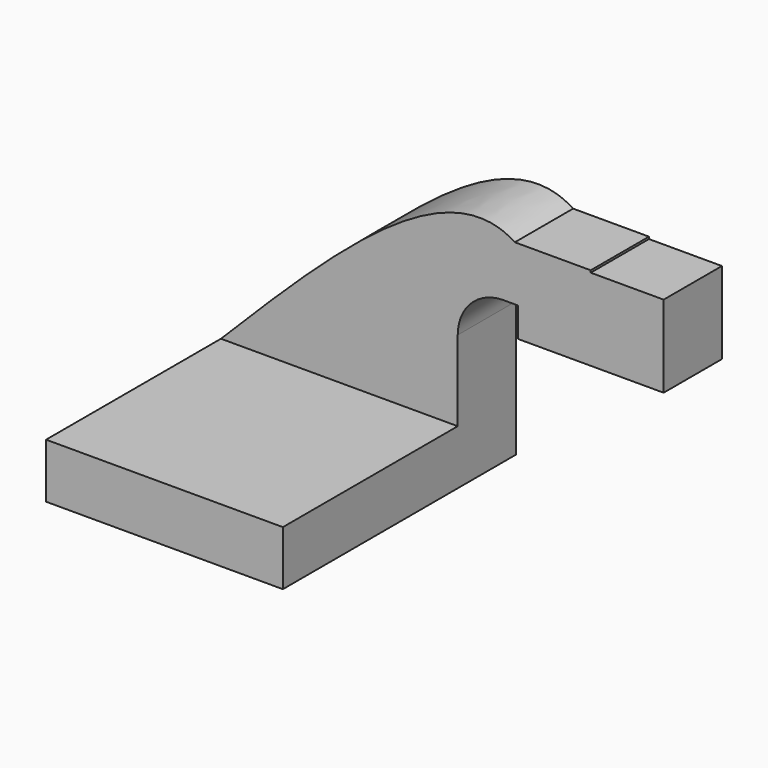
from build123d import *

# Parameters (mm, degrees)
F1_DEPTH = 101.6
F2_DEPTH = 25.4


with BuildPart() as f1:
    # F0 (on Front) → F1 (new body)
    with BuildSketch(Plane.XZ):
        Polygon((-41.275, -9.525), (41.275, -9.525), (41.275, 9.525), (22.225, 9.525), (-41.275, 9.525), align=None)
    extrude(amount=F1_DEPTH)

    # F0 (on Front) → F2 (join)
    with BuildSketch(Plane.XZ):
        Polygon((-41.275, -9.525), (41.275, -9.525), (41.275, 9.525), (22.225, 9.525), (-41.275, 9.525), align=None)
        with BuildLine():
            Line((22.225, 9.525), (41.275, 9.525))
            Line((41.275, 9.525), (41.275, 37.5267544395))
            ThreePointArc((41.275, 37.5267544395), (45.9246798487, 48.7520745908), (57.15, 53.4017544395))
            Line((57.15, 53.4017544395), (62.2553965644, 53.4017544395))
            Line((62.2553965644, 53.4017544395), (62.2553965644, 71.7100659957))
            add(Edge.make_bspline(
                [(61.1839862246, 72.4517544395), (61.5444478672, 72.2168104336), (61.9016010693, 71.9696416328), (62.2553965644, 71.7100659957)],
                knots=[0.5333237342, 0.5333237342, 0.5333237342, 0.5333237342, 0.5412655487, 0.5412655487, 0.5412655487, 0.5412655487], degree=3))
            Line((61.1839862246, 72.4517544395), (57.15, 72.4517544395))
            ThreePointArc((57.15, 72.4517544395), (32.4542956671, 62.2224587724), (22.225, 37.5267544395))
            Line((22.225, 37.5267544395), (22.225, 9.525))
        make_face()
        with BuildLine():
            add(Edge.make_bspline(
                [(-41.275, 9.525), (-2.1487074739, 48.87707908), (36.9775850521, 88.2291581599), (61.1839862246, 72.4517544395)],
                knots=[0, 0, 0, 0, 0.5333237342, 0.5333237342, 0.5333237342, 0.5333237342], degree=3))
            Line((-41.275, 9.525), (22.225, 9.525))
            Line((22.225, 9.525), (22.225, 37.5267544395))
            ThreePointArc((22.225, 37.5267544395), (32.4542956671, 62.2224587724), (57.15, 72.4517544395))
            Line((57.15, 72.4517544395), (61.1839862246, 72.4517544395))
        make_face()
        with BuildLine():
            Line((87.63, 72.4517544395), (61.1839862246, 72.4517544395))
            add(Edge.make_bspline(
                [(61.1839862246, 72.4517544395), (61.5444478672, 72.2168104336), (61.9016010693, 71.9696416328), (62.2553965644, 71.7100659957)],
                knots=[0.5333237342, 0.5333237342, 0.5333237342, 0.5333237342, 0.5412655487, 0.5412655487, 0.5412655487, 0.5412655487], degree=3))
            Line((62.2553965644, 71.7100659957), (87.63, 71.7100659957))
            Line((87.63, 71.7100659957), (87.63, 72.4517544395))
        make_face()
        with BuildLine():
            add(Edge.make_bspline(
                [(62.2553965644, 71.7100659957), (67.5956887588, 67.7919557655), (72.1709689679, 61.0471014204), (75.9112780576, 53.4017544395)],
                knots=[0.5412655487, 0.5412655487, 0.5412655487, 0.5412655487, 0.6611416096, 0.6611416096, 0.6611416096, 0.6611416096], degree=3))
            Line((62.2553965644, 71.7100659957), (62.2553965644, 53.4017544395))
            Line((62.2553965644, 53.4017544395), (75.9112780576, 53.4017544395))
        make_face()
        with BuildLine():
            Line((87.63, 71.7100659957), (62.2553965644, 71.7100659957))
            add(Edge.make_bspline(
                [(62.2553965644, 71.7100659957), (67.5956887588, 67.7919557655), (72.1709689679, 61.0471014204), (75.9112780576, 53.4017544395)],
                knots=[0.5412655487, 0.5412655487, 0.5412655487, 0.5412655487, 0.6611416096, 0.6611416096, 0.6611416096, 0.6611416096], degree=3))
            Line((75.9112780576, 53.4017544395), (87.63, 53.4017544395))
            Line((87.63, 53.4017544395), (87.63, 71.7100659957))
        make_face()
        with BuildLine():
            Line((75.9112780576, 53.4017544395), (62.2553965644, 53.4017544395))
            Line((62.2553965644, 53.4017544395), (62.2553965644, 43.1350659957))
            Line((62.2553965644, 43.1350659957), (80.2891256511, 43.1350659957))
            add(Edge.make_bspline(
                [(75.9112780576, 53.4017544395), (77.5285535174, 50.0959762919), (78.989721228, 46.6218403707), (80.2891256511, 43.1350659957)],
                knots=[0.6611416096, 0.6611416096, 0.6611416096, 0.6611416096, 0.7129749225, 0.7129749225, 0.7129749225, 0.7129749225], degree=3))
        make_face()
        Polygon((113.0553965644, 71.7100659957), (87.63, 71.7100659957), (87.63, 53.4017544395), (87.63, 43.1350659957), (113.0553965644, 43.1350659957), align=None)
        with BuildLine():
            Line((87.63, 53.4017544395), (75.9112780576, 53.4017544395))
            add(Edge.make_bspline(
                [(75.9112780576, 53.4017544395), (77.5285535174, 50.0959762919), (78.989721228, 46.6218403707), (80.2891256511, 43.1350659957)],
                knots=[0.6611416096, 0.6611416096, 0.6611416096, 0.6611416096, 0.7129749225, 0.7129749225, 0.7129749225, 0.7129749225], degree=3))
            Line((80.2891256511, 43.1350659957), (87.63, 43.1350659957))
            Line((87.63, 43.1350659957), (87.63, 53.4017544395))
        make_face()
    extrude(amount=F2_DEPTH)


solid = f1.part
